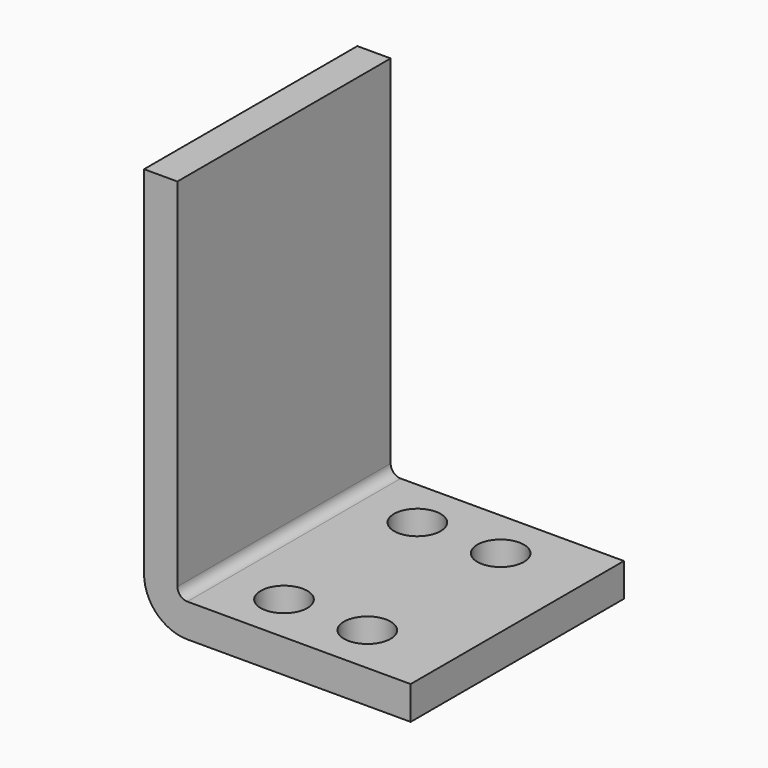
from build123d import *

# Parameters (mm, degrees)
F1_DEPTH = 40
F2_R     = 3
F3_R     = 13
F5_D     = 14


with BuildPart() as f1:
    # F0 (on Front) → F1 (new body, symmetric)
    with BuildSketch(Plane.XZ):
        Polygon((10, 120), (0, 120), (0, 0), (80, 0), (80, 10), (10, 10), align=None)
    extrude(amount=F1_DEPTH, both=True)

    # F2
    f2_edges = [f1.edges().sort_by_distance(p)[0] for p in [
        (10, 0, 10),
    ]]
    fillet(f2_edges, radius=F2_R)

    # F3
    f3_edges = [f1.edges().sort_by_distance(p)[0] for p in [
        (0, 0, 0),
    ]]
    fillet(f3_edges, radius=F3_R)

    # F5 (through all)
    with Locations(Plane.XY.offset(10)):
        with Locations((55, 25), (55, -25), (30, -25), (30, 25)):
            Hole(F5_D / 2)


solid = f1.part
